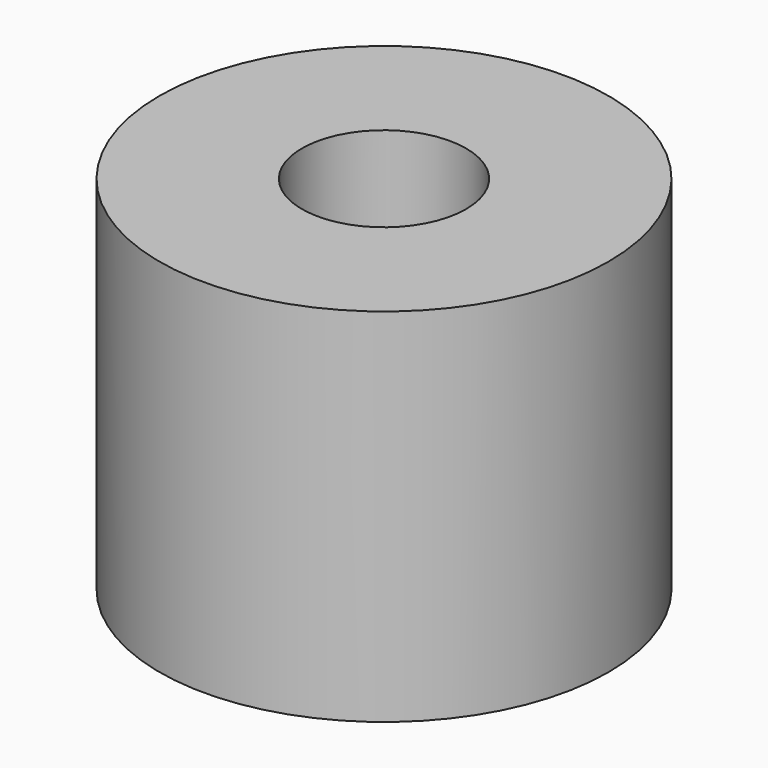
from build123d import *

# Parameters (mm, degrees)
CYLINDER225_R     = 1.5
CYLINDER225_DEPTH = 10
CYLINDER226_R     = 4.1
CYLINDER226_DEPTH = 6.6


with BuildPart() as cylinder225:
    # Cylinder225 → Cylinder225 (new body)
    with BuildSketch(Plane.XY.offset(-1.9)):
        Circle(CYLINDER225_R)
    extrude(amount=CYLINDER225_DEPTH)


with BuildPart() as cut162:
    # Cylinder226 → Cylinder226 (new body)
    with BuildSketch(Plane.XY):
        Circle(CYLINDER226_R)
    extrude(amount=CYLINDER226_DEPTH)

    # Cut162: cut Cylinder225
    add(cylinder225.part, mode=Mode.SUBTRACT)


with BuildPart() as cut162_1:
    # Cut162 placement: moved
    add(cut162.part.moved(Location((76.8, 166.7, 74.5))))


solid = cut162_1.part
